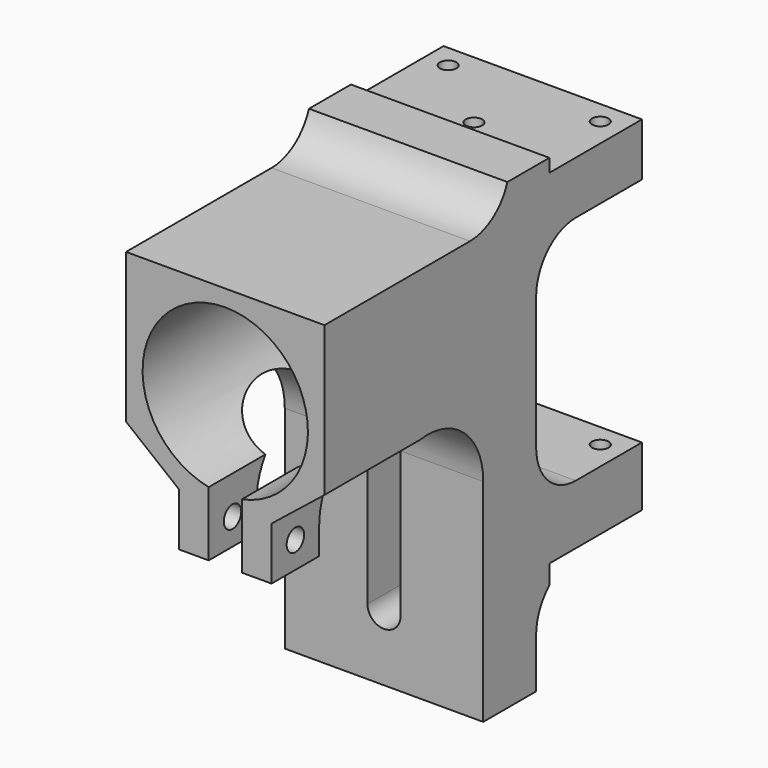
from build123d import *

# Parameters (mm, degrees)
SKETCH013_R                          = 1.25
EXTRUDE009_DEPTH                     = 12
SKETCH012_R                          = 1.25
EXTRUDE008_DEPTH                     = 15
SKETCH011_W                          = 40
SKETCH011_H                          = 25
EXTRUDE007_DEPTH                     = 5
SKETCH010_W                          = 40
SKETCH010_H                          = 25
EXTRUDE006_DEPTH                     = 2
EXTRUDE004_DEPTH                     = 18
EXTRUDE004_ONTO_SKETCH007_ROLL_ANGLE = 90
SKETCH006_AS_DRAWN_R                 = 12.5
EXTRUDE003_DEPTH                     = 65
EXTRUDE003_ONTO_SKETCH006_ROLL_ANGLE = 90
EXTRUDE002_DEPTH                     = 60
EXTRUDE002_ONTO_SKETCH005_ROLL_ANGLE = 90
SKETCH004_R                          = 1.65
EXTRUDE_DEPTH                        = 40
SKETCH_AS_DRAWN_W                    = 30
SKETCH_AS_DRAWN_H                    = 70
EXTRUDE001_DEPTH                     = 60
EXTRUDE001_ONTO_SKETCH_ROLL_ANGLE    = 90


with BuildPart() as extrude009:
    # Sketch013 → Extrude009 (new body)
    with BuildSketch(Plane.XY.offset(15)):
        with Locations((11.5, 56.5)):
            Circle(SKETCH013_R)
        with Locations((-11.5, 56.5)):
            Circle(SKETCH013_R)
    extrude(amount=EXTRUDE009_DEPTH)


with BuildPart() as extrude008:
    # Sketch012 → Extrude008 (new body)
    with BuildSketch(Plane.XY.offset(70)):
        with Locations((0, 47)):
            Circle(SKETCH012_R)
        with Locations((11.5, 56.5)):
            Circle(SKETCH012_R)
        with Locations((-11.5, 56.5)):
            Circle(SKETCH012_R)
    extrude(amount=-EXTRUDE008_DEPTH)


with BuildPart() as extrude007:
    # Sketch011 → Extrude007 (new body)
    with BuildSketch(Plane(origin=(0, 35, 16), x_dir=(1, 0, 0), z_dir=(0, 0, 1))):
        with Locations((0, 20)):
            Rectangle(SKETCH011_W, SKETCH011_H)
    extrude(amount=-EXTRUDE007_DEPTH)


with BuildPart() as extrude006:
    # Sketch010 → Extrude006 (new body)
    with BuildSketch(Plane(origin=(0, 35, 70), x_dir=(1, 0, 0), z_dir=(0, 0, 1))):
        with Locations((0, 20)):
            Rectangle(SKETCH010_W, SKETCH010_H)
    extrude(amount=-EXTRUDE006_DEPTH)


with BuildPart() as extrude004:
    # Sketch007 as drawn → Extrude004 (new)
    with BuildSketch(Plane.XY):
        Polygon((17, 44), (7, 36), (7, 25), (17, 25), align=None)
        Polygon((-17, 44), (-7, 36), (-7, 25), (-17, 25), align=None)
    extrude(amount=-EXTRUDE004_DEPTH)


with BuildPart() as extrude004_1:
    # Extrude004 onto Sketch007 roll: moved
    add(extrude004.part.rotate(Axis((0, 0, 0), (1, 0, 0)), EXTRUDE004_ONTO_SKETCH007_ROLL_ANGLE))


with BuildPart() as extrude004_2:
    # Extrude004 onto Sketch007 placement: moved
    add(extrude004_1.part)


with BuildPart() as extrude003:
    # Sketch006 as drawn → Extrude003 (new)
    with BuildSketch(Plane.XY):
        with Locations((0, 50)):
            Circle(SKETCH006_AS_DRAWN_R)
    extrude(amount=-EXTRUDE003_DEPTH)


with BuildPart() as extrude003_1:
    # Extrude003 onto Sketch006 roll: moved
    add(extrude003.part.rotate(Axis((0, 0, 0), (1, 0, 0)), EXTRUDE003_ONTO_SKETCH006_ROLL_ANGLE))


with BuildPart() as extrude003_2:
    # Extrude003 onto Sketch006 placement: moved
    add(extrude003_1.part)


with BuildPart() as extrude002:
    # Sketch005 as drawn → Extrude002 (new)
    with BuildSketch(Plane.XY):
        with BuildLine():
            Line((2.5, 50), (2.5, 10))
            ThreePointArc((-2.5, 10), (0, 7.5), (2.5, 10))
            Line((-2.5, 10), (-2.5, 50))
            ThreePointArc((2.5, 50), (0, 52.5), (-2.5, 50))
        make_face()
    extrude(amount=-EXTRUDE002_DEPTH)


with BuildPart() as extrude002_1:
    # Extrude002 onto Sketch005 roll: moved
    add(extrude002.part.rotate(Axis((0, 0, 0), (1, 0, 0)), EXTRUDE002_ONTO_SKETCH005_ROLL_ANGLE))


with BuildPart() as extrude002_2:
    # Extrude002 onto Sketch005 placement: moved
    add(extrude002_1.part.moved(Location((0, -5, 0))))


with BuildPart() as extrude_cut_xy:
    # Sketch004 → Extrude (new body)
    with BuildSketch(Plane(origin=(0, 40, 0), x_dir=(0, 1, 0), z_dir=(1, 0, 0))):
        with Locations((-35.5, 32)):
            Circle(SKETCH004_R)
        with BuildLine():
            Line((7.5, 15), (30, 15))
            Line((30, 15), (30, 0))
            Line((30, 0), (0, 0))
            Line((0, 0), (0, 7.5))
            ThreePointArc((7.5, 15), (2.196699, 12.803301), (0, 7.5))
        make_face()
        with BuildLine():
            Line((7.5, 60), (30, 60))
            Line((30, 60), (30, 25))
            Line((30, 25), (7.5, 25))
            ThreePointArc((0, 32.5), (2.196699, 27.196699), (7.5, 25))
            Line((0, 32.5), (0, 52.5))
            ThreePointArc((7.5, 60), (2.196699, 57.803301), (0, 52.5))
        make_face()
        with BuildLine():
            Line((-10, 32), (-10, 0))
            Line((-10, 0), (-41, 0))
            Line((-41, 0), (-41, 28))
            Line((-41, 28), (-31, 28))
            Line((-31, 28), (-31, 32))
            ThreePointArc((-10, 32), (-20.5, 42.5), (-31, 32))
        make_face()
        with BuildLine():
            Line((-41, 80), (-5, 80))
            Line((-5, 80), (-5, 72.5))
            ThreePointArc((-12.5, 65), (-7.196699, 67.196699), (-5, 72.5))
            Line((-12.5, 65), (-41, 65))
            Line((-41, 65), (-41, 80))
        make_face()
    extrude(amount=EXTRUDE_DEPTH)


with BuildPart() as extrude_cut_xy_1:
    # Extrude placement: moved
    add(extrude_cut_xy.part.moved(Location((-20, 0, 0))))


with BuildPart() as cut007:
    # Sketch as drawn → Extrude001 (new)
    with BuildSketch(Plane.XY):
        with Locations((0, 35)):
            Rectangle(SKETCH_AS_DRAWN_W, SKETCH_AS_DRAWN_H)
    extrude(amount=-EXTRUDE001_DEPTH)


with BuildPart() as cut007_1:
    # Extrude001 onto Sketch roll: moved
    add(cut007.part.rotate(Axis((0, 0, 0), (1, 0, 0)), EXTRUDE001_ONTO_SKETCH_ROLL_ANGLE))


with BuildPart() as cut007_2:
    # Extrude001 onto Sketch placement: moved
    add(cut007_1.part)

    # Cut: cut extrude-cut-xy
    add(extrude_cut_xy_1.part, mode=Mode.SUBTRACT)

    # Cut001: cut Extrude002
    add(extrude002_2.part, mode=Mode.SUBTRACT)

    # Cut002: cut Extrude003
    add(extrude003_2.part, mode=Mode.SUBTRACT)

    # Cut003: cut Extrude004
    add(extrude004_2.part, mode=Mode.SUBTRACT)

    # Cut004: cut Extrude006
    add(extrude006.part, mode=Mode.SUBTRACT)

    # Cut005: cut Extrude007
    add(extrude007.part, mode=Mode.SUBTRACT)

    # Cut006: cut Extrude008
    add(extrude008.part, mode=Mode.SUBTRACT)

    # Cut007: cut Extrude009
    add(extrude009.part, mode=Mode.SUBTRACT)


solid = cut007_2.part
